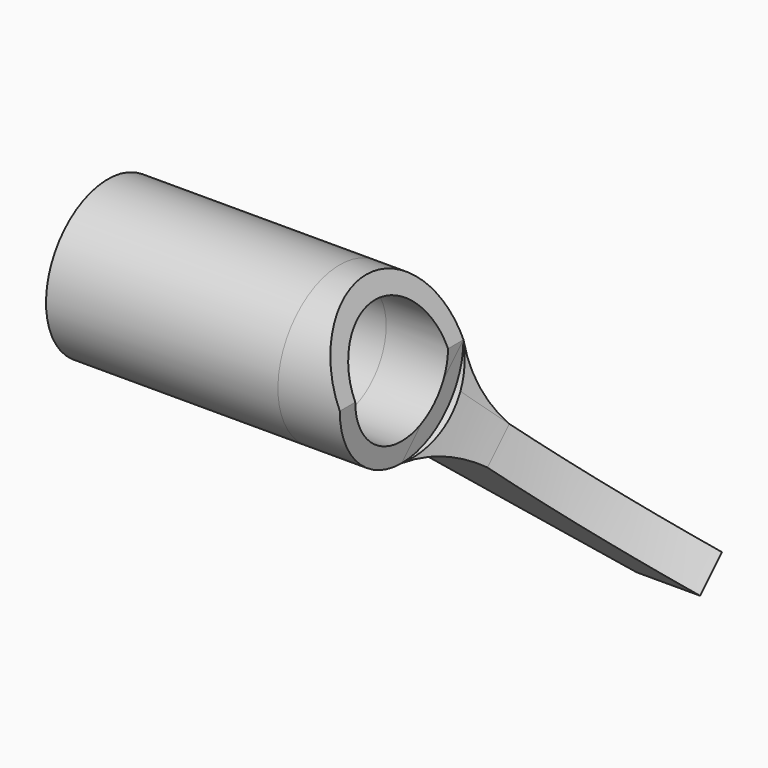
from build123d import *

# Parameters (mm, degrees)
F0_R          = 7.5
F1_DEPTH      = 8
F2_DEPTH      = 5
F2_DEPTH_BACK = 30
F4_DEPTH      = 12.5
F5_DEPTH      = 10
F5_DEPTH_BACK = 25
F7_DEPTH      = 25
F7_DEPTH_BACK = 25


with BuildPart() as f1:
    # F0 (on Right) → F1 (new body)
    with BuildSketch(Plane.YZ):
        with BuildLine():
            ThreePointArc((0, -10), (7.0710678119, -7.0710678119), (10, 0))
            ThreePointArc((10, 0), (-7.0710678119, 7.0710678119), (0, -10))
        make_face()
        Circle(F0_R, mode=Mode.SUBTRACT)
    extrude(amount=F1_DEPTH)

    # F0 (on Right) → F2 (join, two sides)
    with BuildSketch(Plane.YZ) as f2_sk:
        with BuildLine():
            ThreePointArc((0, -10), (7.0710678119, -7.0710678119), (10, 0))
            ThreePointArc((10, 0), (-7.0710678119, 7.0710678119), (0, -10))
        make_face()
        Circle(F0_R, mode=Mode.SUBTRACT)
    extrude(amount=F2_DEPTH)
    extrude(f2_sk.sketch, amount=-F2_DEPTH_BACK)

    # F3 (on Front) → F4 (cut, symmetric)
    with BuildSketch(Plane.XZ):
        Polygon((8, 0), (8, 10), (3.417424305, 10), align=None)
    extrude(amount=F4_DEPTH, both=True, mode=Mode.SUBTRACT)

    # F0 (on Right) → F5 (join, two sides)
    with BuildSketch(Plane.YZ) as f5_sk:
        with BuildLine():
            ThreePointArc((13.5738675599, -10.038333654), (10.9801111189, -5.3064134392), (10, 0))
            ThreePointArc((10, 0), (7.0710678119, -7.0710678119), (0, -10))
            ThreePointArc((0, -10), (5.3064134392, -10.9801111189), (10.038333654, -13.5738675599))
            Line((10.038333654, -13.5738675599), (27.0088964024, -30.5444303084))
            Line((27.0088964024, -30.5444303084), (30.5444303084, -27.0088964024))
            Line((30.5444303084, -27.0088964024), (13.5738675599, -10.038333654))
        make_face()
    extrude(amount=-F5_DEPTH)
    extrude(f5_sk.sketch, amount=F5_DEPTH_BACK)

    # F6 (on face) → F7 (cut, two sides)
    with BuildSketch(Plane(origin=(0, 1.767766953, 1.767766953), x_dir=(1, 0, 0), z_dir=(0, 0.7071067812, 0.7071067812))) as f7_sk:
        with BuildLine():
            ThreePointArc((-10, 10), (-7.1369616608, 13.3518740219), (-4.2652819266, 16.6963475971))
            Line((-4.2652819266, 16.696347597), (-10, 16.696347597))
            Line((-10, 16.696347597), (-10, 10))
        make_face()
        with BuildLine():
            ThreePointArc((-4.2652819266, 16.6963475971), (6.2060505049, 28.7455446955), (16.7895406485, 40.696347597))
            Line((16.7895406485, 40.696347597), (-10, 40.696347597))
            Line((-10, 40.696347597), (-10, 16.696347597))
            Line((-10, 16.696347597), (-4.2652819266, 16.696347597))
        make_face()
        with BuildLine():
            Line((25, 16.696347597), (25, 40.696347597))
            ThreePointArc((25, 40.696347597), (17.0783625635, 29.2519356675), (11.071357295, 16.696347597))
            Line((11.071357295, 16.696347597), (25, 16.696347597))
        make_face()
        with BuildLine():
            Line((25, 16.696347597), (11.071357295, 16.696347597))
            ThreePointArc((11.071357295, 16.696347597), (9.396655894, 11.9280688615), (8, 7.0710678119))
            Line((8, 7.0710678119), (25, 7.0189046673))
            Line((25, 7.0189046673), (25, 16.696347597))
        make_face()
    extrude(amount=-F7_DEPTH, mode=Mode.SUBTRACT)
    extrude(f7_sk.sketch, amount=F7_DEPTH_BACK, mode=Mode.SUBTRACT)


solid = f1.part
